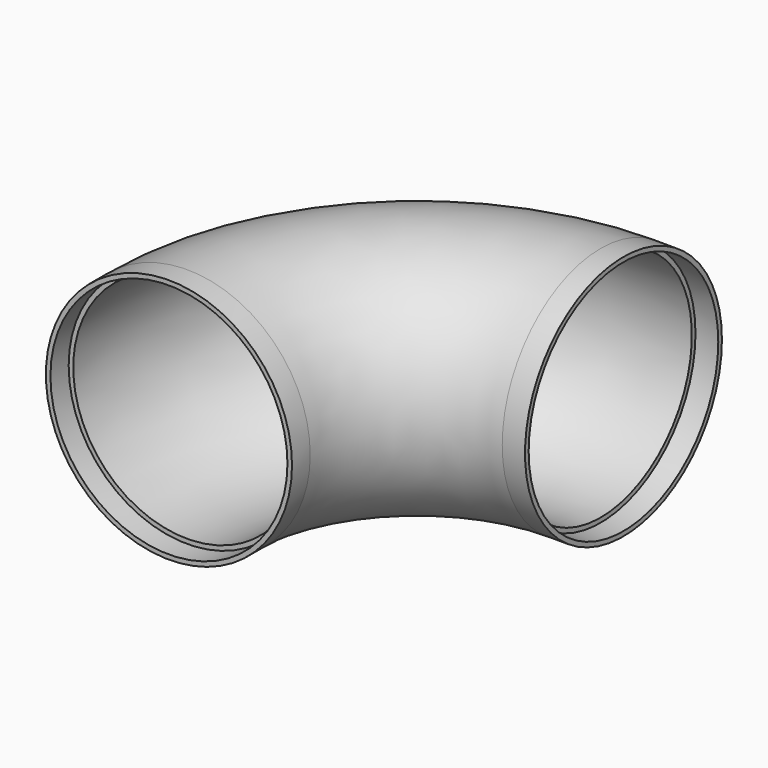
from build123d import *

# Parameters (mm, degrees)
F0_R     = 27
F0_R_2   = 25
F1_ANGLE = 90
F2_R     = 27
F2_R_2   = 26
F3_DEPTH = 5
F4_R     = 27
F4_R_2   = 26
F5_DEPTH = 5


with BuildPart() as f1:
    # F0 (on Front) → F1 (revolve)
    with BuildSketch(Plane.XZ):
        Circle(F0_R)
        Circle(F0_R_2, mode=Mode.SUBTRACT)
    revolve(axis=Axis((50.399996, 0, -9.491349), (0, 0, -1)), revolution_arc=F1_ANGLE)

    # F2 (on Front) → F3 (join)
    with BuildSketch(Plane.XZ):
        Circle(F2_R)
        Circle(F2_R_2, mode=Mode.SUBTRACT)
    extrude(amount=F3_DEPTH)

    # F4 (on face) → F5 (join)
    with BuildSketch(Plane.YZ.offset(50.399996)):
        with Locations((50.399996, 0)):
            Circle(F4_R)
        with Locations((50.399996, 0)):
            Circle(F4_R_2, mode=Mode.SUBTRACT)
    extrude(amount=F5_DEPTH)


solid = f1.part
